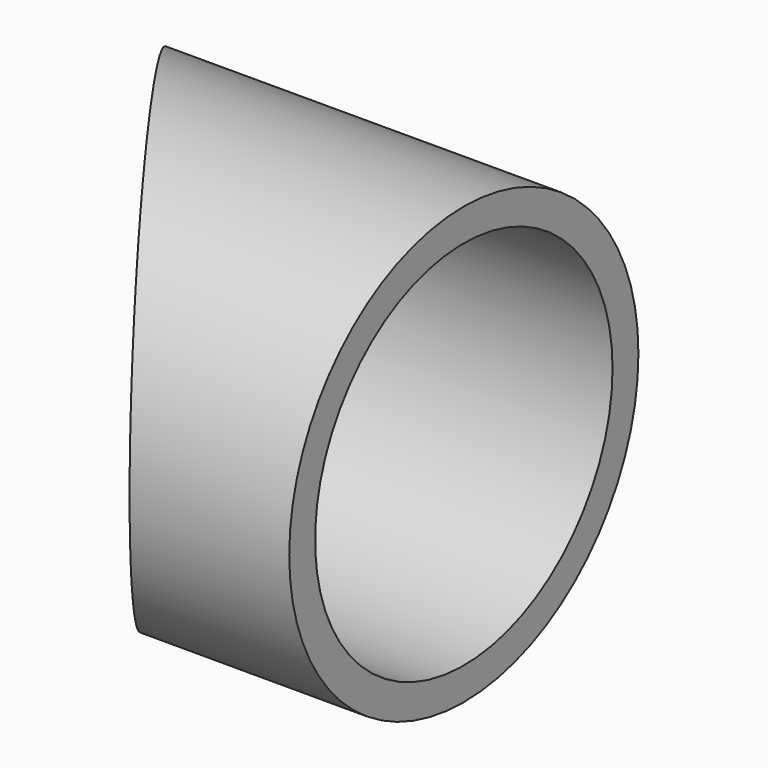
from build123d import *

# Parameters (mm, degrees)
F0_R          = 13.5
F0_R_2        = 11.5
F1_DEPTH      = 28.626
F3_DEPTH      = 25
F3_DEPTH_BACK = 25


with BuildPart() as f1:
    # F0 (on Right) → F1 (new body)
    with BuildSketch(Plane.YZ):
        Circle(F0_R)
        Circle(F0_R_2, mode=Mode.SUBTRACT)
    extrude(amount=F1_DEPTH)

    # F2 (on Top) → F3 (cut, two sides)
    with BuildSketch(Plane.XY) as f3_sk:
        Polygon((18.75, -13.5), (0, 13.5), (0, -13.5), align=None)
    extrude(amount=F3_DEPTH, mode=Mode.SUBTRACT)
    extrude(f3_sk.sketch, amount=-F3_DEPTH_BACK, mode=Mode.SUBTRACT)


solid = f1.part
